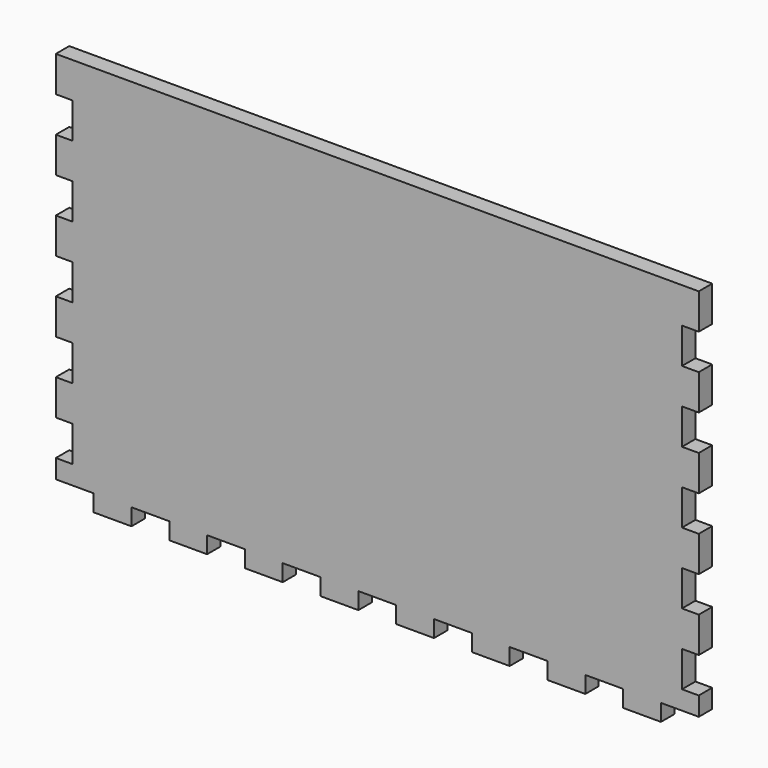
from build123d import *

# Parameters (mm, degrees)
F1_DEPTH = 6


with BuildPart() as f1:
    # F0 (on Front) → F1 (new body)
    with BuildSketch(Plane.XZ):
        Polygon((-100.247184, -39.551257), (-100.247184, -45.551257), (-86.717772, -45.551257), (-86.717772, -39.551257), (-73.18836, -39.551257), (-73.18836, -45.551257), (-59.658949, -45.551257), (-59.658949, -39.551257), (-46.129537, -39.551257), (-46.129537, -45.551257), (-32.600125, -45.551257), (-32.600125, -39.551257), (-19.070713, -39.551257), (-19.070713, -45.551257), (-5.541302, -45.551257), (-5.541302, -39.551257), (7.98811, -39.551257), (7.98811, -45.551257), (21.517522, -45.551257), (21.517522, -39.551257), (35.046934, -39.551257), (35.046934, -45.551257), (48.576345, -45.551257), (48.576345, -39.551257), (62.105757, -39.551257), (62.105757, -45.551257), (75.635169, -45.551257), (75.635169, -39.551257), (89.164581, -39.551257), (89.164581, -45.551257), (102.693992, -45.551257), (102.693992, -39.551257), (116.223404, -39.551257), (116.223404, -32.823985), (110.223404, -32.823985), (110.223404, -20.096712), (116.223404, -20.096712), (116.223404, -7.369439), (110.223404, -7.369439), (110.223404, 5.357834), (116.223404, 5.357834), (116.223404, 18.085106), (110.223404, 18.085106), (110.223404, 30.812379), (116.223404, 30.812379), (116.223404, 43.539652), (110.223404, 43.539652), (110.223404, 56.266925), (116.223404, 56.266925), (116.223404, 68.994197), (110.223404, 68.994197), (110.223404, 81.72147), (116.223404, 81.72147), (116.223404, 94.448743), (-113.776596, 94.448743), (-113.776596, 81.72147), (-107.776596, 81.72147), (-107.776596, 68.994197), (-113.776596, 68.994197), (-113.776596, 56.266925), (-107.776596, 56.266925), (-107.776596, 43.539652), (-113.776596, 43.539652), (-113.776596, 30.812379), (-107.776596, 30.812379), (-107.776596, 18.085106), (-113.776596, 18.085106), (-113.776596, 5.357834), (-107.776596, 5.357834), (-107.776596, -7.369439), (-113.776596, -7.369439), (-113.776596, -20.096712), (-107.776596, -20.096712), (-107.776596, -32.823985), (-113.776596, -32.823985), (-113.776596, -39.551257), align=None)
    extrude(amount=F1_DEPTH)


solid = f1.part
